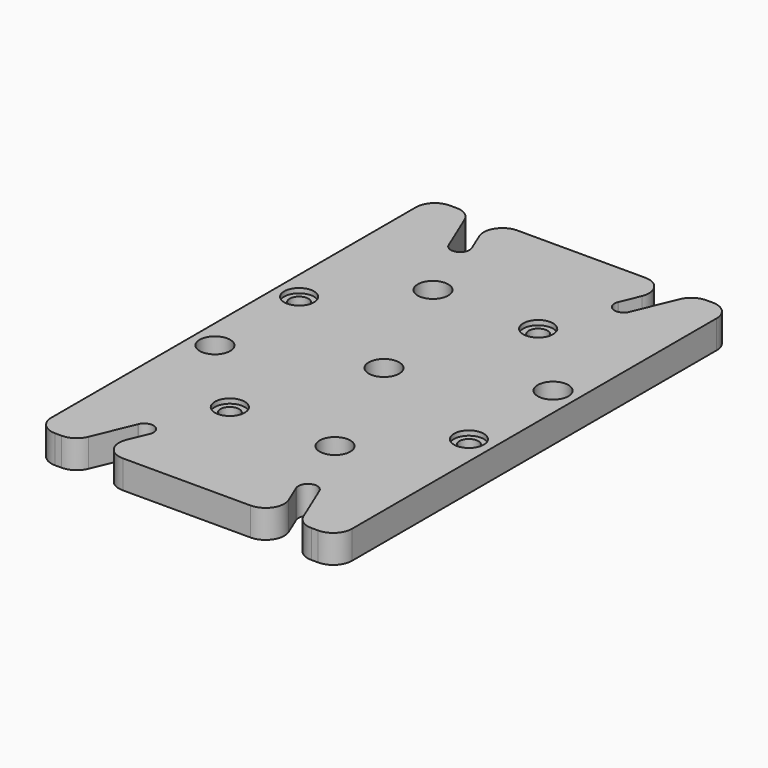
from build123d import *

# Parameters (mm, degrees)
F0_W      = 128
F0_H      = 210
F1_DEPTH  = 12
F2_R      = 8
F3_R      = 6.5
F3_R_2    = 4
F4_DEPTH  = 25
F3_R_3    = 6.35
F5_DEPTH  = 2
F7_DEPTH  = 25
F8_R      = 8
F10_R     = 6.5
F11_DEPTH = 25


with BuildPart() as f1:
    # F0 (on Top) → F1 (new body)
    with BuildSketch(Plane.XY):
        Rectangle(F0_W, F0_H)
    extrude(amount=F1_DEPTH)

    # F2
    f2_edges = [f1.edges().sort_by_distance(p)[0] for p in [
        (-64, -105, 6),
        (64, -105, 6),
        (64, 105, 6),
        (-64, 105, 6),
    ]]
    fillet(f2_edges, radius=F2_R)

    # F3 (on face) → F4 (cut)
    with BuildSketch(Plane.XY.offset(12)):
        with Locations((-22.3869807934, 54.0469526519)):
            Circle(F3_R)
        with Locations((-54.0469526519, 22.3869807934)):
            Circle(F3_R_2)
        with Locations((-54.0469526519, -22.3869807934)):
            Circle(F3_R)
        with Locations((-22.3869807934, -54.0469526519)):
            Circle(F3_R_2)
        with Locations((22.3869807934, -54.0469526519)):
            Circle(F3_R)
        with Locations((54.0469526519, -22.3869807934)):
            Circle(F3_R_2)
        with Locations((54.0469526519, 22.3869807934)):
            Circle(F3_R)
        with Locations((22.3869807934, 54.0469526519)):
            Circle(F3_R_2)
    extrude(amount=-F4_DEPTH, mode=Mode.SUBTRACT)

    # F3 (on face) → F5 (cut)
    with BuildSketch(Plane.XY.offset(12)):
        with Locations((-54.0469526519, 22.3869807934)):
            Circle(F3_R_3)
        with Locations((-54.0469526519, 22.3869807934)):
            Circle(F3_R_2, mode=Mode.SUBTRACT)
        with Locations((-22.3869807934, -54.0469526519)):
            Circle(F3_R_3)
        with Locations((-22.3869807934, -54.0469526519)):
            Circle(F3_R_2, mode=Mode.SUBTRACT)
        with Locations((54.0469526519, -22.3869807934)):
            Circle(F3_R_3)
        with Locations((54.0469526519, -22.3869807934)):
            Circle(F3_R_2, mode=Mode.SUBTRACT)
        with Locations((22.3869807934, 54.0469526519)):
            Circle(F3_R_3)
        with Locations((22.3869807934, 54.0469526519)):
            Circle(F3_R_2, mode=Mode.SUBTRACT)
    extrude(amount=-F5_DEPTH, mode=Mode.SUBTRACT)

    # F6 (on face) → F7 (cut)
    with BuildSketch(Plane.XY.offset(12)):
        with BuildLine():
            Line((-47.8209470608, 105), (-38.5524603376, 82.6238936502))
            Line((-38.5524603376, 82.6238936502), (-38.4851753385, 82.4614532928))
            ThreePointArc((-38.4851753385, 82.4614532928), (-33.2934586158, 80.3775193285), (-31.0959243529, 85.5221812669))
            Line((-31.0959243529, 85.5221812669), (-31.163209352, 85.6846216242))
            Line((-31.163209352, 85.6846216242), (-39.1639010376, 105))
            Line((-39.1639010376, 105), (-47.8209470608, 105))
        make_face()
        with BuildLine():
            Line((-38.5524603376, -82.6238936502), (-47.8209470608, -105))
            Line((-47.8209470608, -105), (-39.1639010376, -105))
            Line((-39.1639010376, -105), (-31.163209352, -85.6846216242))
            Line((-31.163209352, -85.6846216242), (-31.0959243529, -85.5221812669))
            ThreePointArc((-31.0959243529, -85.5221812669), (-33.2934586158, -80.3775193285), (-38.4851753385, -82.4614532928))
            Line((-38.4851753385, -82.4614532928), (-38.5524603376, -82.6238936502))
        make_face()
        with BuildLine():
            Line((31.163209352, -85.6846216242), (39.1639010376, -105))
            Line((39.1639010376, -105), (47.8209470608, -105))
            Line((47.8209470608, -105), (38.5524603376, -82.6238936502))
            Line((38.5524603376, -82.6238936502), (38.4851753385, -82.4614532928))
            ThreePointArc((38.4851753385, -82.4614532928), (33.2934586158, -80.3775193285), (31.0959243529, -85.5221812669))
            Line((31.0959243529, -85.5221812669), (31.163209352, -85.6846216242))
        make_face()
        with BuildLine():
            Line((47.8209470608, 105), (39.1639010376, 105))
            Line((39.1639010376, 105), (31.163209352, 85.6846216242))
            Line((31.163209352, 85.6846216242), (31.0959243529, 85.5221812669))
            ThreePointArc((31.0959243529, 85.5221812669), (33.2934586158, 80.3775193285), (38.4851753385, 82.4614532928))
            Line((38.4851753385, 82.4614532928), (38.5524603376, 82.6238936502))
            Line((38.5524603376, 82.6238936502), (47.8209470608, 105))
        make_face()
    extrude(amount=-F7_DEPTH, mode=Mode.SUBTRACT)

    # F8
    f8_edges = [f1.edges().sort_by_distance(p)[0] for p in [
        (-47.820947, 105, 6),
        (-39.163901, 105, 6),
        (39.163901, 105, 6),
        (47.820947, 105, 6),
        (47.820947, -105, 6),
        (39.163901, -105, 6),
        (-39.163901, -105, 6),
        (-47.820947, -105, 6),
    ]]
    fillet(f8_edges, radius=F8_R)

    # F10 (on face) → F11 (cut)
    with BuildSketch(Plane.XY.offset(12)):
        Circle(F10_R)
    extrude(amount=-F11_DEPTH, mode=Mode.SUBTRACT)


solid = f1.part
